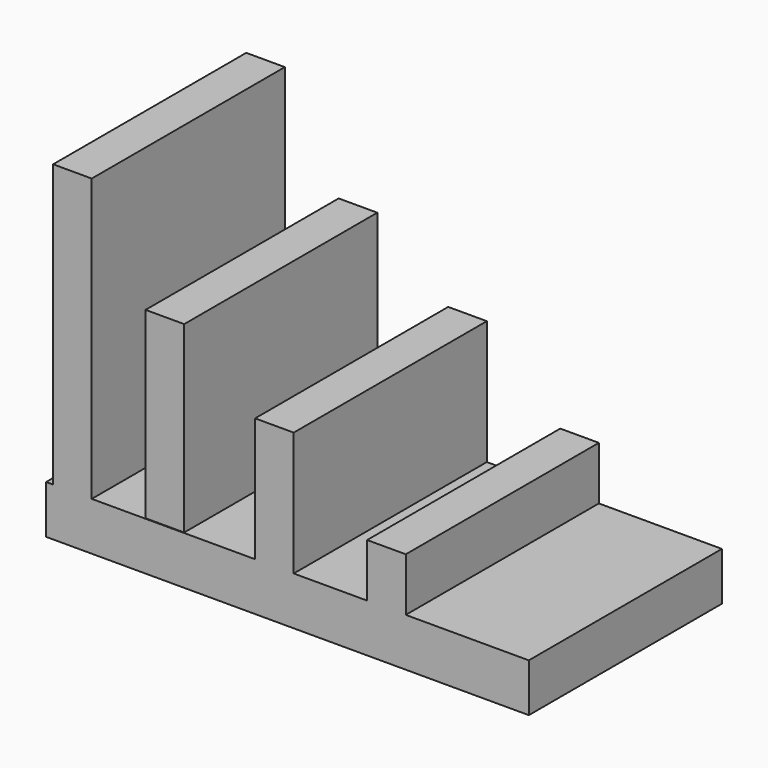
from build123d import *

# Parameters (mm, degrees)
F0_W     = 127
F0_H     = 12.7
F2_DEPTH = 63.5
F1_W     = 10.16
F1_H     = 76.204258
F3_DEPTH = 63.5
F4_W     = 10.16
F4_H     = 48.26
F7_DEPTH = 63.5
F5_W     = 10.16
F5_H     = 33.02
F8_DEPTH = 63.5
F6_W     = 10.16
F6_H     = 15.24
F9_DEPTH = 63.5


with BuildPart() as f2:
    # F0 (on Front) → F2 (new body)
    with BuildSketch(Plane.XZ):
        with Locations((3.119301, -37.621977)):
            Rectangle(F0_W, F0_H)
    extrude(amount=F2_DEPTH)

    # F1 (on Front) → F3 (join)
    with BuildSketch(Plane.XZ):
        with Locations((-53.4477, 4.816202)):
            Rectangle(F1_W, F1_H)
    extrude(amount=F3_DEPTH)

    # F5 (on Front) → F8 (join)
    with BuildSketch(Plane.XZ):
        with Locations((-0.311929, -15.153663)):
            Rectangle(F5_W, F5_H)
    extrude(amount=F8_DEPTH)

    # F6 (on Front) → F9 (join)
    with BuildSketch(Plane.XZ):
        with Locations((29.165437, -24.857583)):
            Rectangle(F6_W, F6_H)
    extrude(amount=F9_DEPTH)


with BuildPart() as f7:
    # F4 (on Front) → F7 (new body)
    with BuildSketch(Plane.XZ):
        with Locations((-29.128493, -7.018421)):
            Rectangle(F4_W, F4_H)
    extrude(amount=F7_DEPTH)


solid = Compound([f2.part, f7.part])
